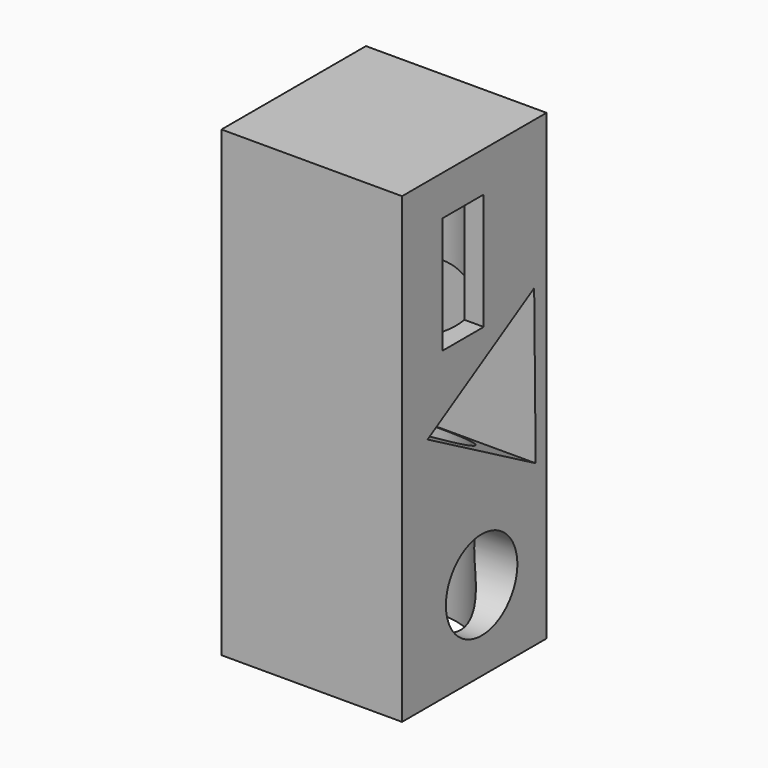
from build123d import *

# Parameters (mm, degrees)
F0_W      = 32.8124985099
F0_H      = 32.8125022352
F1_DEPTH  = 84.1
F2_R      = 18.0617046785
F3_DEPTH  = 25
F4_R      = 12.861682219
F5_DEPTH  = 83.9
F6_R      = 12.5847574658
F7_DEPTH  = 95.8
F9_DEPTH  = 47.1
F10_R     = 8.1119683514
F11_DEPTH = 55.8
F12_W     = 9.392676875
F12_H     = 21.1881324649
F13_DEPTH = 42.9


with BuildPart() as f1:
    # F0 (on Top) → F1 (new body)
    with BuildSketch(Plane.XY):
        with Locations((16.4062492549, 16.4062511176)):
            Rectangle(F0_W, F0_H)
    extrude(amount=F1_DEPTH)

    # F2 (on Front) → F3 (cut)
    with BuildSketch(Plane.XZ):
        with Locations((-41.3749553263, 38.6410132051)):
            Circle(F2_R)
    extrude(amount=-F3_DEPTH, mode=Mode.SUBTRACT)

    # F4 (on face) → F5 (cut)
    with BuildSketch(Plane(origin=(0, 0, 0), x_dir=(1, 0, 0), z_dir=(0, 0, -1))):
        with Locations((16.6250001639, -16.4062511176)):
            Circle(F4_R)
    extrude(amount=-F5_DEPTH, mode=Mode.SUBTRACT)

    # F6 (on face) → F7 (cut)
    with BuildSketch(Plane(origin=(0, 0, 83.9), x_dir=(1, 0, 0), z_dir=(0, 0, -1))):
        with Locations((16.6250001639, -16.4062511176)):
            Circle(F6_R)
    extrude(amount=F7_DEPTH, mode=Mode.SUBTRACT)

    # F8 (on face) → F9 (cut)
    with BuildSketch(Plane.YZ.offset(32.8124985099)):
        Polygon((30.0061684702, 57.1961463892), (5.7924445118, 42.8192554511), (30.3500592709, 29.0380008519), align=None)
    extrude(amount=-F9_DEPTH, mode=Mode.SUBTRACT)

    # F10 (on face) → F11 (cut)
    with BuildSketch(Plane(origin=(0, 0, 0), x_dir=(0, -1, 0), z_dir=(-1, 0, 0))):
        with Locations((-18.0712518913, 14.5746218041)):
            Circle(F10_R)
    extrude(amount=-F11_DEPTH, mode=Mode.SUBTRACT)

    # F12 (on face) → F13 (cut)
    with BuildSketch(Plane(origin=(0, 0, 0), x_dir=(0, -1, 0), z_dir=(-1, 0, 0))):
        with Locations((-13.8582708314, 66.2343464792)):
            Rectangle(F12_W, F12_H)
    extrude(amount=-F13_DEPTH, mode=Mode.SUBTRACT)


solid = f1.part
